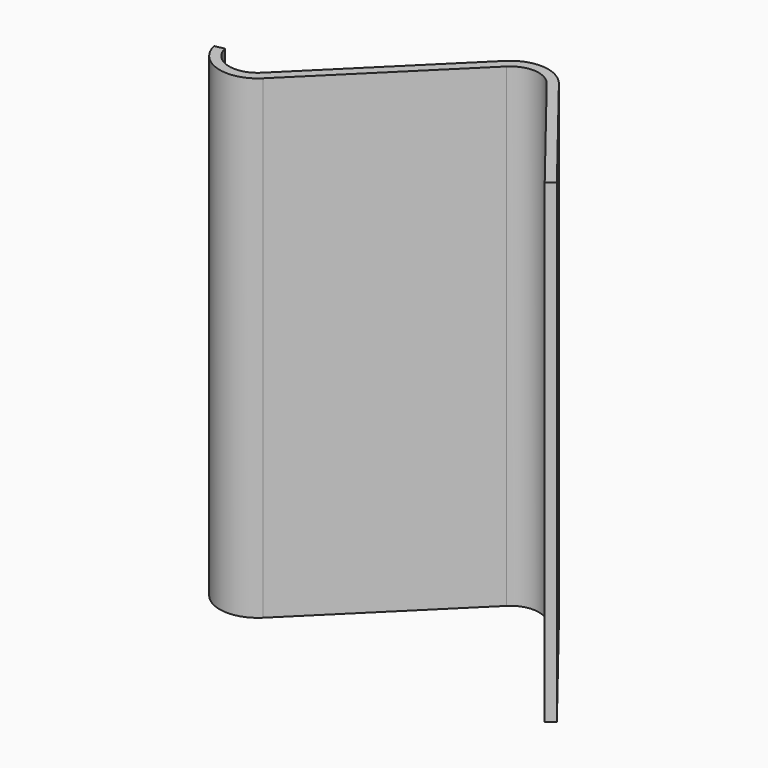
from build123d import *

# Parameters (mm, degrees)
F1_DEPTH = 100


with BuildPart() as f1:
    # F0 (on Top) → F1 (new body)
    with BuildSketch(Plane.XY):
        with BuildLine():
            ThreePointArc((-46.856811, 3.946826), (-41.30421, -1.986208), (-33.424664, 0))
            Line((-33.424664, 0), (-4.784987, 28.312028))
            ThreePointArc((-4.784987, 28.312028), (-0.189573, 30.033178), (4.1535, 27.748904))
            Line((4.1535, 27.748904), (25.926978, 0))
            Line((25.926978, 0), (27.500419, 1.234618))
            Line((27.500419, 1.234618), (5.726942, 28.983522))
            ThreePointArc((5.726942, 28.983522), (-0.063822, 32.029221), (-6.191042, 29.734354))
            Line((-6.191042, 29.734354), (-34.830718, 1.422326))
            ThreePointArc((-34.830718, 1.422326), (-40.740378, -0.06733), (-44.904828, 4.382446))
            Line((-44.904828, 4.382446), (-46.856811, 3.946826))
        make_face()
    extrude(amount=F1_DEPTH)


solid = f1.part
